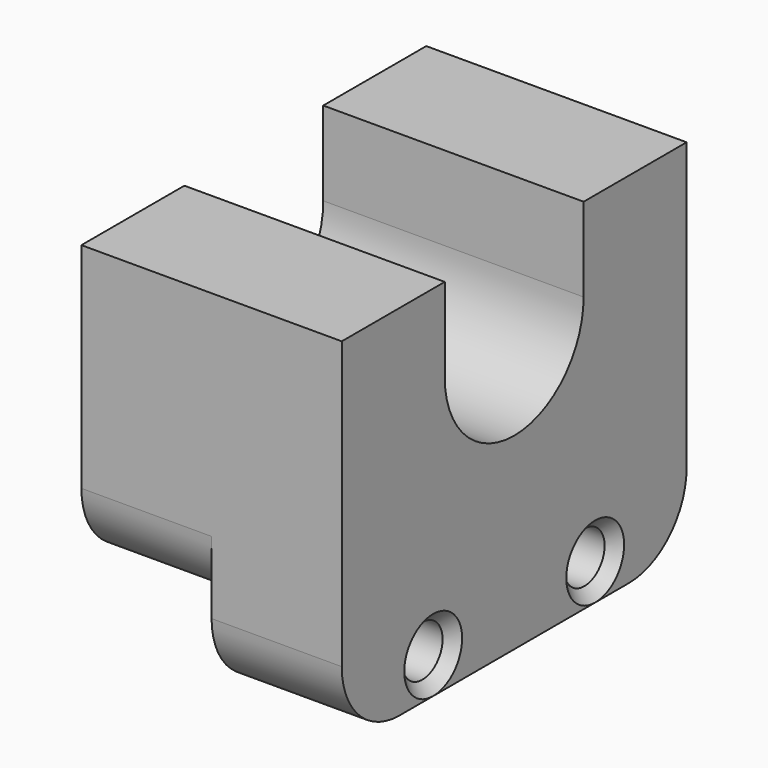
from build123d import *

# Parameters (mm, degrees)
F1_DEPTH       = 9
F2_DEPTH       = 9
F4_D           = 3.5
F4_CSINK_D     = 5
F4_CSINK_ANGLE = 90


with BuildPart() as f1:
    # F0 (on Right) → F1 (new body)
    with BuildSketch(Plane.YZ):
        with BuildLine():
            ThreePointArc((-5, -24.8), (-1.464466, -23.335534), (0, -19.8))
            Line((0, -19.8), (0, -14.8))
            ThreePointArc((0, -14.8), (-1.464466, -18.335534), (-5, -19.8))
            Line((-5, -19.8), (-24.8, -19.8))
            ThreePointArc((-24.8, -19.8), (-28.335534, -18.335534), (-29.8, -14.8))
            Line((-29.8, -14.8), (-29.8, -19.8))
            ThreePointArc((-29.8, -19.8), (-28.335534, -23.335534), (-24.8, -24.8))
            Line((-24.8, -24.8), (-5, -24.8))
        make_face()
        with BuildLine():
            ThreePointArc((-5, -19.8), (-1.464466, -18.335534), (0, -14.8))
            Line((0, -14.8), (0, 0))
            Line((0, 0), (-8.9, 0))
            Line((-8.9, 0), (-8.9, -5.8))
            ThreePointArc((-8.9, -5.8), (-14.9, -11.8), (-20.9, -5.8))
            Line((-20.9, -5.8), (-20.9, 0))
            Line((-20.9, 0), (-29.8, 0))
            Line((-29.8, 0), (-29.8, -14.8))
            ThreePointArc((-29.8, -14.8), (-28.335534, -18.335534), (-24.8, -19.8))
            Line((-24.8, -19.8), (-5, -19.8))
        make_face()
    extrude(amount=F1_DEPTH)

    # F0 (on Right) → F2 (join)
    with BuildSketch(Plane.YZ):
        with BuildLine():
            ThreePointArc((-5, -19.8), (-1.464466, -18.335534), (0, -14.8))
            Line((0, -14.8), (0, 0))
            Line((0, 0), (-8.9, 0))
            Line((-8.9, 0), (-8.9, -5.8))
            ThreePointArc((-8.9, -5.8), (-14.9, -11.8), (-20.9, -5.8))
            Line((-20.9, -5.8), (-20.9, 0))
            Line((-20.9, 0), (-29.8, 0))
            Line((-29.8, 0), (-29.8, -14.8))
            ThreePointArc((-29.8, -14.8), (-28.335534, -18.335534), (-24.8, -19.8))
            Line((-24.8, -19.8), (-5, -19.8))
        make_face()
    extrude(amount=-F2_DEPTH)

    # F4 (through all)
    with Locations(Plane.YZ.offset(9)):
        with Locations((-21.9, -22.3), (-7.9, -22.3)):
            CounterSinkHole(F4_D / 2, F4_CSINK_D / 2, counter_sink_angle=F4_CSINK_ANGLE)


solid = f1.part
